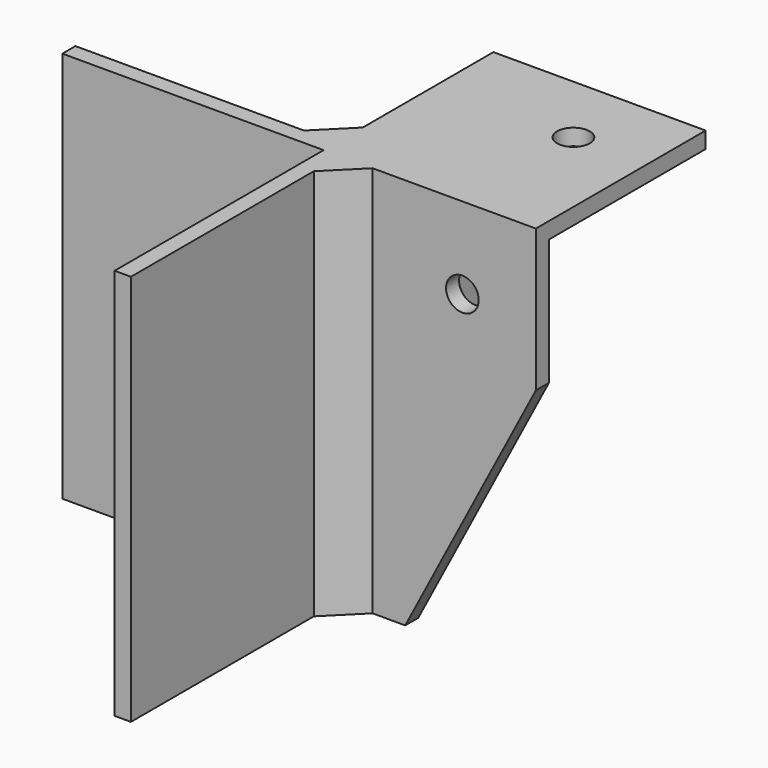
from build123d import *

# Parameters (mm, degrees)
F0_W          = 50.8
F0_H          = 50.8
F1_DEPTH      = 3.175
F2_W          = 50.8
F2_H          = 3.175
F3_DEPTH      = 12.7
F3_DEPTH_BACK = 76.2
F4_W          = 3.175
F4_H          = 101.6
F5_DEPTH      = 12.7
F5_DEPTH_BACK = 76.2
F7_W          = 47.625
F7_H          = 12.7
F8_DEPTH      = 25.4
F9_W          = 47.625
F9_H          = 12.7
F10_DEPTH     = 25.4
F12_DEPTH     = 25.4
F14_DEPTH     = 25.4
F16_DEPTH     = 53.976
F18_DEPTH     = 76.2
F19_R         = 3.175
F20_DEPTH     = 25.4
F21_R         = 3.175
F22_DEPTH     = 25.4
F23_R         = 3.175
F24_DEPTH     = 25.4
F26_DEPTH     = 76.201


with BuildPart() as f1:
    # F0 (on Top) → F1 (new body)
    with BuildSketch(Plane.XY):
        with Locations((25.4, 25.4)):
            Rectangle(F0_W, F0_H)
    extrude(amount=F1_DEPTH)

    # F2 (on face) → F3 (join, two sides)
    with BuildSketch(Plane.XY.offset(3.175)) as f3_sk:
        with Locations((-25.4, 1.5875)):
            Rectangle(F2_W, F2_H)
        with Locations((25.4, 1.5875)):
            Rectangle(F2_W, F2_H)
    extrude(amount=F3_DEPTH)
    extrude(f3_sk.sketch, amount=-F3_DEPTH_BACK)

    # F4 (on face) → F5 (join, two sides)
    with BuildSketch(Plane.XY.offset(3.175)) as f5_sk:
        with Locations((1.5875, 0)):
            Rectangle(F4_W, F4_H)
    extrude(amount=F5_DEPTH)
    extrude(f5_sk.sketch, amount=-F5_DEPTH_BACK)

    # F7 (on face) → F8 (cut)
    with BuildSketch(Plane.YZ.offset(3.175)):
        with Locations((26.9875, 9.525)):
            Rectangle(F7_W, F7_H)
    extrude(amount=-F8_DEPTH, mode=Mode.SUBTRACT)

    # F9 (on face) → F10 (cut)
    with BuildSketch(Plane(origin=(0, 3.175, 0), x_dir=(-1, 0, 0), z_dir=(0, 1, 0))):
        with Locations((-26.9875, 9.525)):
            Rectangle(F9_W, F9_H)
    extrude(amount=-F10_DEPTH, mode=Mode.SUBTRACT)

    # F11 (on face) → F12 (cut)
    with BuildSketch(Plane.XZ):
        Polygon((50.8, -6.35), (15.875, -73.025), (50.8, -73.025), align=None)
    extrude(amount=-F12_DEPTH, mode=Mode.SUBTRACT)

    # F13 (on face) → F14 (cut)
    with BuildSketch(Plane(origin=(0, 0, 0), x_dir=(0, -1, 0), z_dir=(-1, 0, 0))):
        Polygon((-15.875, -73.025), (-50.8, -6.35), (-50.8, -73.025), align=None)
    extrude(amount=-F14_DEPTH, mode=Mode.SUBTRACT)

    # F15 (on face) → F16 (cut, through all)
    with BuildSketch(Plane(origin=(0, 3.175, 0), x_dir=(-1, 0, 0), z_dir=(0, 1, 0))):
        Polygon((50.8, 15.875), (-3.175, 15.875), (-3.175, 3.175), (0, 3.175), (50.8, 3.175), align=None)
    extrude(amount=-F16_DEPTH, mode=Mode.SUBTRACT)

    # F17 (on face) → F18 (join, through all)
    with BuildSketch(Plane.XY.offset(3.175)):
        Polygon((9.525, 0), (3.175, 0), (3.175, -6.35), align=None)
        Polygon((-6.35, 3.175), (0, 3.175), (0, 9.525), align=None)
    extrude(amount=-F18_DEPTH)

    # F19 (on face) → F20 (cut)
    with BuildSketch(Plane(origin=(0, 3.175, 0), x_dir=(-1, 0, 0), z_dir=(0, 1, 0))):
        with Locations((-26.9875, -12.7)):
            Circle(F19_R)
    extrude(amount=-F20_DEPTH, mode=Mode.SUBTRACT)

    # F21 (on face) → F22 (cut)
    with BuildSketch(Plane.YZ.offset(3.175)):
        with Locations((26.9875, -12.7)):
            Circle(F21_R)
    extrude(amount=-F22_DEPTH, mode=Mode.SUBTRACT)

    # F23 (on face) → F24 (cut)
    with BuildSketch(Plane(origin=(0, 0, 0), x_dir=(1, 0, 0), z_dir=(0, 0, -1))):
        with Locations((26.9875, -26.9875)):
            Circle(F23_R)
    extrude(amount=-F24_DEPTH, mode=Mode.SUBTRACT)

    # F25 (on face) → F26 (cut, through all)
    with BuildSketch(Plane.XY.offset(3.175)):
        Polygon((41.275, 0), (50.8, 0), (50.8, 50.8), (41.275, 50.8), (0, 50.8), (0, 41.275), (41.275, 41.275), align=None)
    extrude(amount=-F26_DEPTH, mode=Mode.SUBTRACT)


solid = f1.part
